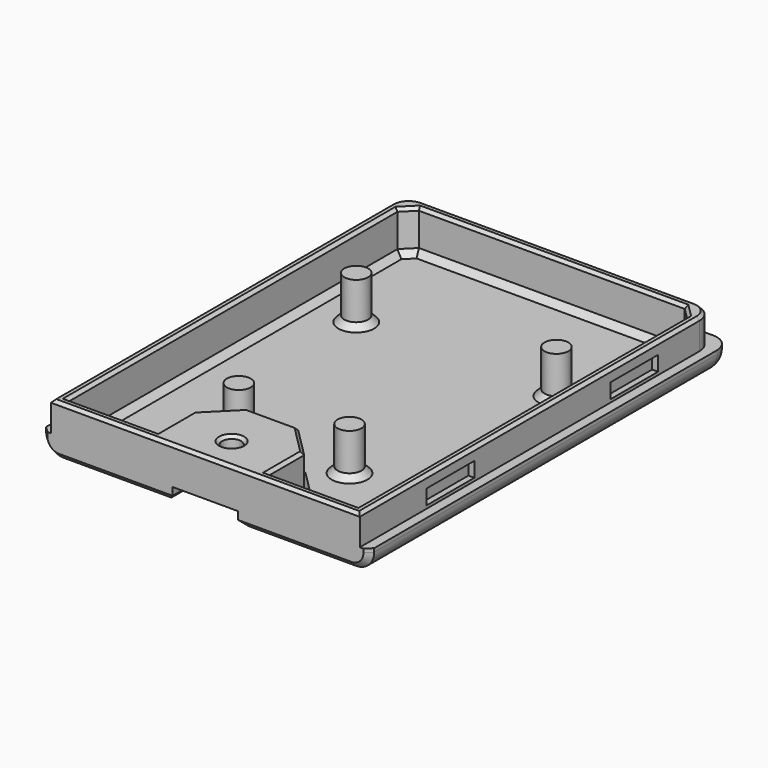
from build123d import *

# Parameters (mm, degrees)
SKETCH_W        = 55
SKETCH_H        = 75.8
PAD_DEPTH       = 3.6
SKETCH001_W     = 51.76
SKETCH001_H     = 74.18
PAD001_DEPTH    = 5
POCKET_DEPTH    = 7
SKETCH003_R     = 2
PAD002_DEPTH    = 7.25
SKETCH004_W     = 10
SKETCH004_H     = 2.5
POCKET001_DEPTH = 1
SKETCH005_W     = 10
SKETCH005_H     = 2.5
POCKET002_DEPTH = 1
POCKET003_DEPTH = 2.3
SKETCH007_R     = 1.6
POCKET004_DEPTH = 6.551
CHAMFER_SIZE    = 5
CHAMFER001_SIZE = 2
CHAMFER002_SIZE = 1
CHAMFER003_SIZE = 1
CHAMFER004_SIZE = 1
FILLET_R        = 3
CHAMFER005_SIZE = 0.5
CHAMFER006_SIZE = 1


with BuildPart() as part:
    # Sketch → Pad (new body)
    with BuildSketch(Plane.XY):
        with Locations((27.5, 37.9)):
            Rectangle(SKETCH_W, SKETCH_H)
    extrude(amount=PAD_DEPTH)

    # Sketch001 → Pad001 (new body)
    with BuildSketch(Plane.XY.offset(3.6)):
        with Locations((27.5, 37.09)):
            Rectangle(SKETCH001_W, SKETCH001_H)
    extrude(amount=PAD001_DEPTH)

    # Sketch002 → Pocket (cut)
    with BuildSketch(Plane.XY.offset(8.6)):
        Polygon((18.22, 1.6), (3.22, 1.6), (3.22, 72.58), (51.78, 72.58), (51.78, 1.6), (36.78, 1.6), (36.78, 14.1), (18.22, 14.1), align=None)
    extrude(amount=-POCKET_DEPTH, mode=Mode.SUBTRACT)

    # Sketch003 → Pad002 (new body)
    with BuildSketch(Plane.XY.offset(1.6)):
        with Locations((10.72, 52.58)):
            Circle(SKETCH003_R)
        with Locations((44.28, 52.58)):
            Circle(SKETCH003_R)
        with Locations((18.22, 18.6)):
            Circle(SKETCH003_R)
        with Locations((36.78, 18.6)):
            Circle(SKETCH003_R)
    extrude(amount=PAD002_DEPTH)

    # Sketch004 → Pocket001 (cut)
    with BuildSketch(Plane.YZ.offset(53.38)):
        with Locations((19, 5.35)):
            Rectangle(SKETCH004_W, SKETCH004_H)
        with Locations((57.5, 5.35)):
            Rectangle(SKETCH004_W, SKETCH004_H)
    extrude(amount=-POCKET001_DEPTH, mode=Mode.SUBTRACT)

    # Sketch005 → Pocket002 (cut)
    with BuildSketch(Plane(origin=(1.62, 0, 0), x_dir=(0, -1, 0), z_dir=(-1, 0, 0))):
        with Locations((-57.5, 5.35)):
            Rectangle(SKETCH005_W, SKETCH005_H)
        with Locations((-19, 5.35)):
            Rectangle(SKETCH005_W, SKETCH005_H)
    extrude(amount=-POCKET002_DEPTH, mode=Mode.SUBTRACT)

    # Sketch006 → Pocket003 (cut)
    with BuildSketch(Plane(origin=(0, 0, 0), x_dir=(1, 0, 0), z_dir=(0, 0, -1))):
        with BuildLine():
            Line((22, 0), (33, 0))
            Line((33, 0), (33, -5.500002))
            ThreePointArc((27.500001, -11), (31.389087, -9.389088), (33, -5.500002))
            Line((27.500001, -11), (27.499999, -11))
            ThreePointArc((22, -5.500002), (23.610913, -9.389088), (27.499999, -11))
            Line((22, -5.500002), (22, 0))
        make_face()
    extrude(amount=-POCKET003_DEPTH, mode=Mode.SUBTRACT)

    # Sketch007 → Pocket004 (cut, through all)
    with BuildSketch(Plane(origin=(0, 0, 2.3), x_dir=(1, 0, 0), z_dir=(0, 0, -1))):
        with Locations((27.5, -5.5)):
            Circle(SKETCH007_R)
    extrude(amount=-POCKET004_DEPTH, mode=Mode.SUBTRACT)

    # Chamfer
    chamfer_edges = [part.edges().sort_by_distance(p)[0] for p in [
        (18.22, 14.1, 5.1),
        (36.78, 14.1, 5.1),
    ]]
    chamfer(chamfer_edges, length=CHAMFER_SIZE)

    # Chamfer001
    chamfer001_edges = [part.edges().sort_by_distance(p)[0] for p in [
        (3.22, 72.58, 5.1),
        (51.78, 72.58, 5.1),
    ]]
    chamfer(chamfer001_edges, length=CHAMFER001_SIZE)

    # Chamfer002
    chamfer002_edges = [part.edges().sort_by_distance(p)[0] for p in [
        (3.22, 36.09, 1.6),
        (4.22, 71.58, 1.6),
        (10.72, 1.6, 1.6),
        (27.5, 72.58, 1.6),
        (18.22, 5.35, 1.6),
        (50.78, 71.58, 1.6),
        (20.72, 11.6, 1.6),
        (51.78, 36.09, 1.6),
        (27.5, 14.1, 1.6),
        (44.28, 1.6, 1.6),
        (34.28, 11.6, 1.6),
        (36.78, 5.35, 1.6),
        (8.72, 52.58, 1.6),
        (42.28, 52.58, 1.6),
        (34.78, 18.6, 1.6),
        (16.22, 18.6, 1.6),
    ]]
    chamfer(chamfer002_edges, length=CHAMFER002_SIZE)

    # Chamfer003
    chamfer003_edges = [part.edges().sort_by_distance(p)[0] for p in [
        (25.9, 5.5, 2.3),
    ]]
    chamfer(chamfer003_edges, length=CHAMFER003_SIZE)

    # Chamfer004
    chamfer004_edges = [part.edges().sort_by_distance(p)[0] for p in [
        (23.610913, 9.389088, 0),
        (31.389087, 9.389088, 0),
    ]]
    chamfer(chamfer004_edges, length=CHAMFER004_SIZE)

    # Fillet
    fillet_edges = [part.edges().sort_by_distance(p)[0] for p in [
        (1.62, 74.18, 6.1),
        (0, 75.8, 1.8),
        (0, 37.9, 0),
        (27.5, 75.8, 0),
        (53.38, 74.18, 6.1),
        (55, 37.9, 0),
        (55, 75.8, 1.8),
    ]]
    fillet(fillet_edges, radius=FILLET_R)

    # Chamfer005
    chamfer005_edges = [part.edges().sort_by_distance(p)[0] for p in [
        (1.62, 35.59, 8.6),
        (2.49868, 73.30132, 8.6),
        (27.5, 0, 8.6),
        (27.5, 74.18, 8.6),
        (53.38, 35.59, 8.6),
        (52.50132, 73.30132, 8.6),
        (51.78, 36.09, 8.6),
        (50.78, 71.58, 8.6),
        (44.28, 1.6, 8.6),
        (27.5, 72.58, 8.6),
        (36.78, 5.35, 8.6),
        (4.22, 71.58, 8.6),
        (34.28, 11.6, 8.6),
        (3.22, 36.09, 8.6),
        (27.5, 14.1, 8.6),
        (10.72, 1.6, 8.6),
        (20.72, 11.6, 8.6),
        (18.22, 5.35, 8.6),
        (25.9, 5.5, 8.6),
    ]]
    chamfer(chamfer005_edges, length=CHAMFER005_SIZE)

    # Chamfer006
    chamfer006_edges = [part.edges().sort_by_distance(p)[0] for p in [
        (43, 0, 0),
        (12, 0, 0),
    ]]
    chamfer(chamfer006_edges, length=CHAMFER006_SIZE)


solid = part.part
